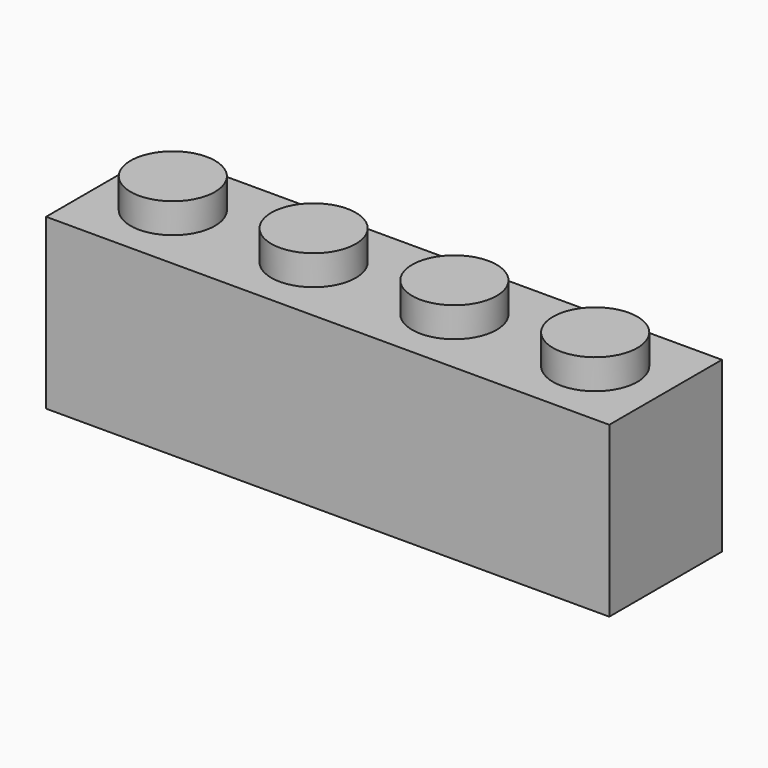
from build123d import *

# Parameters (mm, degrees)
F1_DEPTH = 8
F3_W     = 8
F3_H     = 8
F3_R     = 2.4
F4_DEPTH = 1.7
F5_R     = 2.4
F6_DEPTH = 1.7


with BuildPart() as f1:
    # F0 (on Front) → F1 (new body)
    with BuildSketch(Plane.XZ):
        Polygon((-2.4, 9.6), (-4, 9.6), (-4, 0), (4, 0), (4, 9.6), (2.4, 9.6), (2.4, 11.3), (-2.4, 11.3), align=None)
    extrude(amount=F1_DEPTH)

    # F3 (on plane+point) → F4 (cut, through all)
    with BuildSketch(Plane.XY.offset(11.3)):
        with Locations((0, -4)):
            Rectangle(F3_W, F3_H)
        with Locations((0, -4)):
            Circle(F3_R, mode=Mode.SUBTRACT)
    extrude(amount=-F4_DEPTH, mode=Mode.SUBTRACT)

    # F5 (on Top) → F6 (cut)
    with BuildSketch(Plane.XY):
        with Locations((0, -4)):
            Circle(F5_R)
    extrude(amount=F6_DEPTH, mode=Mode.SUBTRACT)

    # F8: F1 across plane


with BuildPart() as f1_1:
    add(f1.part)
    add(f1.part.mirror(Plane.YZ.offset(4)))

    # F10: F1 across plane


with BuildPart() as f1_2:
    add(f1_1.part)
    add(f1_1.part.mirror(Plane.YZ.offset(12)))


solid = f1_2.part
